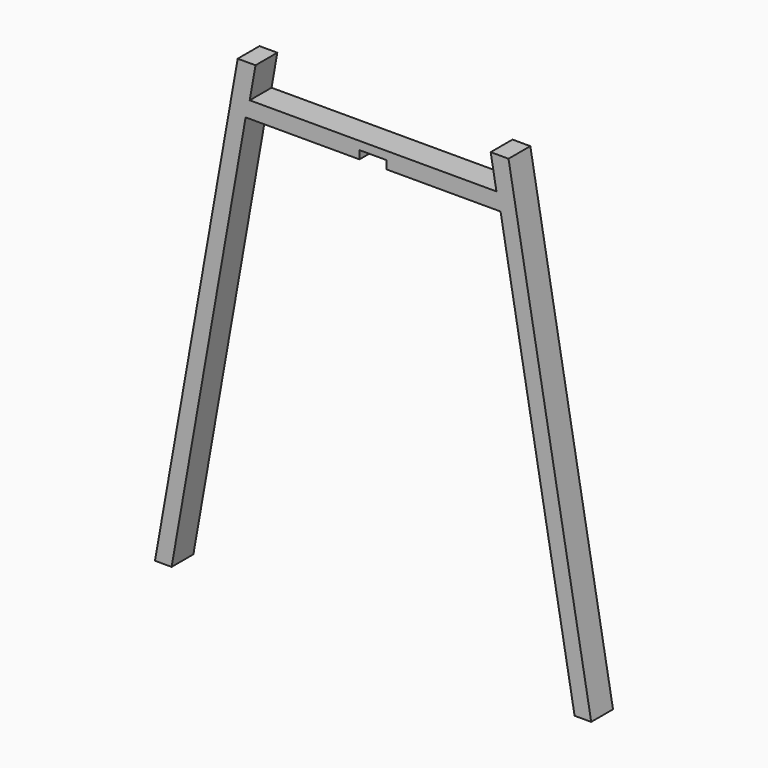
from build123d import *

# Parameters (mm, degrees)
F1_DEPTH = 12.5
F2_W     = 25
F2_H     = 7.5
F3_DEPTH = 12.5


with BuildPart() as f1:
    # F0 (on Front) → F1 (new body, symmetric)
    with BuildSketch(Plane.XZ):
        Polygon((-116.882713, 385), (0, 385), (0, 400), (-113.113844, 400), (-107.824034, 430), (-124.179398, 430), (-200, 0), (-184.768601, 0), align=None)
        Polygon((0, 400), (0, 385), (116.882713, 385), (184.768601, 0), (200, 0), (124.179398, 430), (107.824034, 430), (113.113844, 400), align=None)
    extrude(amount=F1_DEPTH, both=True)

    # F2 (on Front) → F3 (cut, symmetric)
    with BuildSketch(Plane.XZ):
        with Locations((0, 388.75)):
            Rectangle(F2_W, F2_H)
    extrude(amount=F3_DEPTH, both=True, mode=Mode.SUBTRACT)


solid = f1.part
